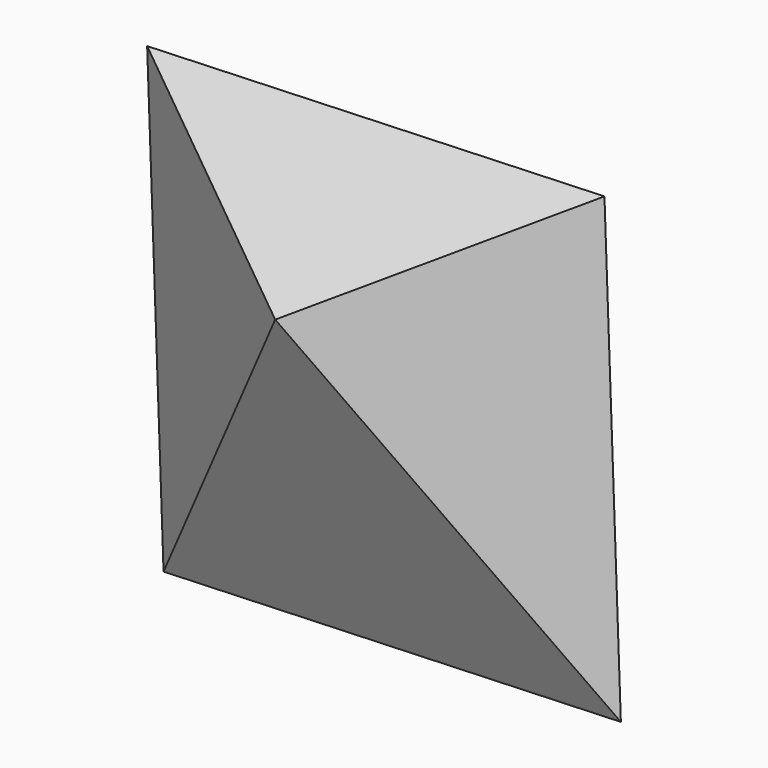
from build123d import *


with BuildPart() as f3:
    # F0 (on Front) → F3 section 0
    with BuildSketch(Plane.XZ, mode=Mode.PRIVATE) as f3_s0:
        Polygon((-51.065575, -16.782787), (20.942623, -14.20082), (18.360656, 57.807378), (-53.647542, 55.225411), align=None)
    loft([Vertex(-13.485673, -25, 40.535636), f3_s0.sketch])


solid = f3.part
